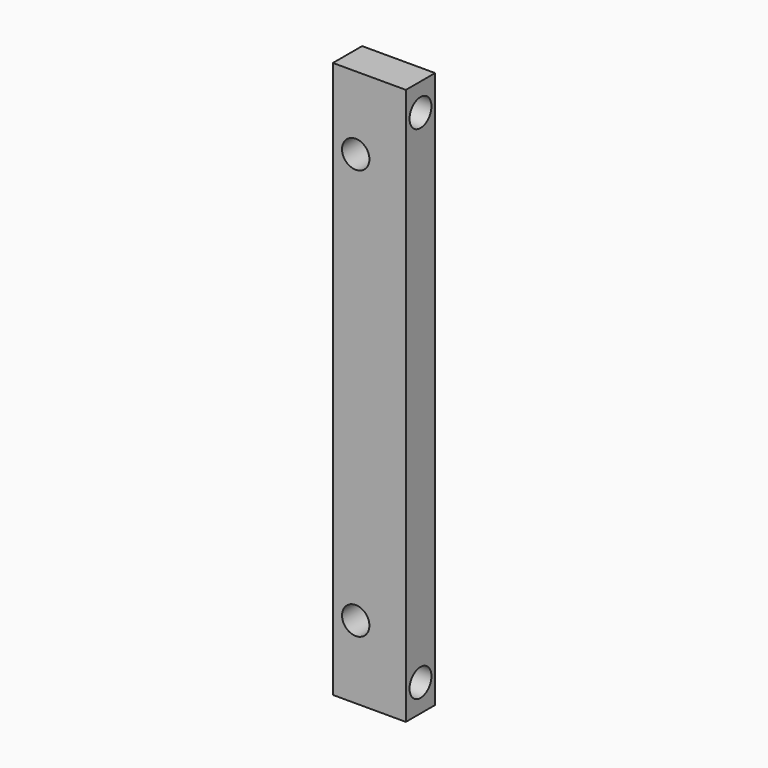
from build123d import *

# Parameters (mm, degrees)
F0_W     = 8
F0_H     = 65
F0_R     = 1.5
F1_DEPTH = 4
F2_R     = 1.5
F3_DEPTH = 25
F4_W     = 9.591324
F4_H     = 3.160866
F4_W_2   = 9.216423
F4_H_2   = 3.027778
F5_DEPTH = 25


with BuildPart() as f1:
    # F0 (on Front) → F1 (new body)
    with BuildSketch(Plane.XZ):
        with Locations((-4, 19.631475)):
            Rectangle(F0_W, F0_H)
        with Locations((-5.5, -2.868525)):
            Circle(F0_R, mode=Mode.SUBTRACT)
        with Locations((-5.5, 42.131475)):
            Circle(F0_R, mode=Mode.SUBTRACT)
    extrude(amount=F1_DEPTH)

    # F2 (on face) → F3 (cut)
    with BuildSketch(Plane.YZ):
        with Locations((-2, 47.131475)):
            Circle(F2_R)
        with Locations((-2, -7.868525)):
            Circle(F2_R)
    extrude(amount=-F3_DEPTH, mode=Mode.SUBTRACT)

    # F4 (on face) → F5 (cut)
    with BuildSketch(Plane.YZ):
        with Locations((-2.453811, 51.711908)):
            Rectangle(F4_W, F4_H)
        with Locations((-0.403113, -12.382414)):
            Rectangle(F4_W_2, F4_H_2)
    extrude(amount=-F5_DEPTH, mode=Mode.SUBTRACT)


solid = f1.part
